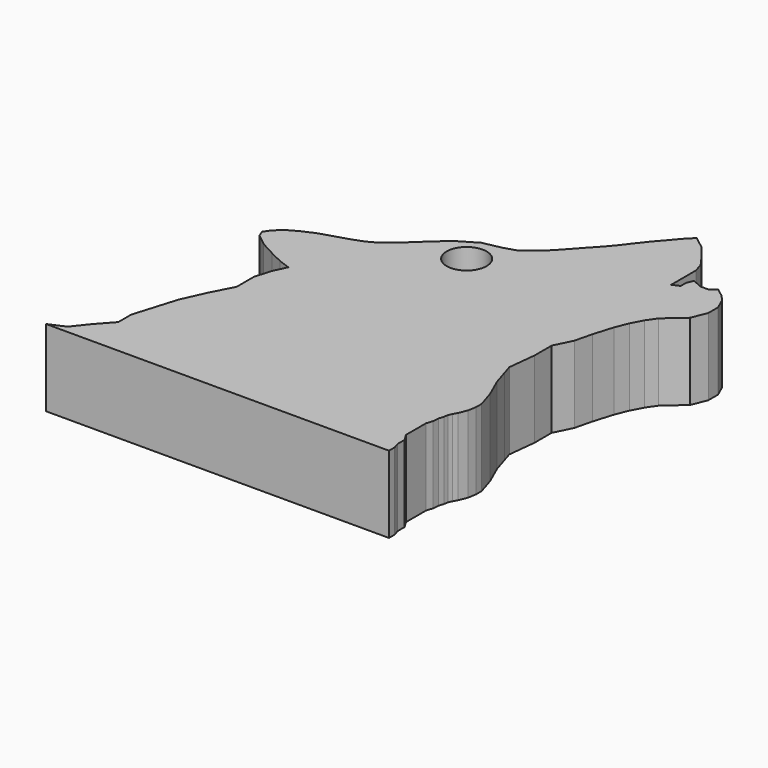
from build123d import *

# Parameters (mm, degrees)
F1_DEPTH = 7.7
F2_R     = 2
F3_DEPTH = 14.4


with BuildPart() as f1:
    # F0 (on Top) → F1 (new body)
    with BuildSketch(Plane.XY):
        Polygon((-38.868088, 39.890725), (-37.658811, 39.446436), (-38.249725, 38.189034), (-38.750622, 36.540247), (-38.750622, 34.333538), (-39.874792, 32.168467), (-40.947256, 29.788468), (-41.671675, 27.403923), (-42.248044, 25.506711), (-42.248044, 23.882907), (-43.663666, 22.30031), (-44.865134, 20.796624), (-46.453279, 20.09597), (-12.089583, 20.09597), (-12.089583, 20.809148), (-12.285668, 21.436621), (-12.285668, 22.30031), (-12.727885, 23.013672), (-12.727885, 23.801431), (-12.727885, 24.664005), (-12.727885, 25.523571), (-12.528915, 26.178513), (-12.476629, 26.770333), (-12.320494, 27.284278), (-12.248813, 27.708853), (-12.088908, 28.056234), (-11.851807, 28.475296), (-11.526482, 29.291363), (-11.383266, 30.11846), (-11.383266, 30.81312), (-11.926459, 32.551334), (-12.7981, 34.52705), (-13.276388, 36.057569), (-13.579202, 37.026573), (-13.276388, 39.824102), (-13.276388, 41.953199), (-12.412329, 43.710936), (-11.989028, 45.443922), (-11.394863, 47.399715), (-10.874968, 48.711833), (-10.280802, 49.825892), (-9.63011, 50.777867), (-7.760718, 52.413587), (-7.153935, 53.932466), (-7.153935, 55.135302), (-7.64388, 56.245841), (-8.157964, 56.853395), (-9.022558, 57.507679), (-9.583375, 57.046662), (-10.421853, 57.046662), (-11.4294, 57.484314), (-11.703454, 56.853395), (-11.703454, 56.161334), (-12.412329, 55.848595), (-12.412329, 57.554416), (-12.412329, 58.947231), (-12.714608, 59.914522), (-13.579202, 61.12963), (-14.490531, 62.274631), (-15.799105, 63.278936), (-16.500128, 62.57841), (-17.317986, 61.620343), (-18.248623, 60.544401), (-18.991331, 59.603639), (-19.808309, 58.539093), (-20.58815, 57.610705), (-21.566048, 56.558538), (-22.333512, 55.704426), (-23.076219, 54.899827), (-23.905577, 54.045714), (-24.474986, 53.587709), (-25.415219, 52.8854), (-26.653593, 52.498408), (-28.460847, 52.127052), (-30.104453, 51.151142), (-30.863894, 50.566956), (-31.407185, 50.064556), (-31.921268, 49.597207), (-32.581396, 49.013022), (-33.083797, 48.516467), (-33.60372, 48.019908), (-34.222957, 47.52335), (-35.035051, 46.96336), (-35.73864, 46.594702), (-36.679402, 46.241917), (-38.461901, 45.684885), (-39.5265, 45.352735), (-40.787674, 44.796333), (-41.770652, 44.239931), (-42.577434, 43.525882), (-43.022554, 42.867474), (-42.790722, 42.255431), (-41.640826, 41.328095), (-40.19418, 40.549133), align=None)
    extrude(amount=F1_DEPTH)

    # F2 (on face) → F3 (cut)
    with BuildSketch(Plane.XY.offset(7.7)):
        with Locations((-27.663102, 49.291145)):
            Circle(F2_R)
    extrude(amount=-F3_DEPTH, mode=Mode.SUBTRACT)


solid = f1.part
